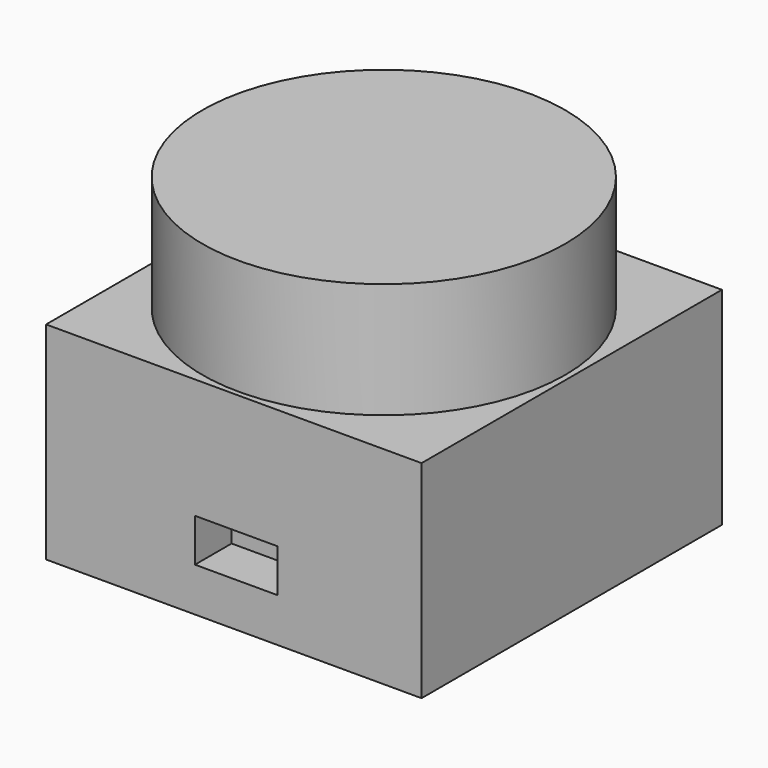
from build123d import *

# Parameters (mm, degrees)
SKETCH_W     = 41
SKETCH_H     = 41
PAD_DEPTH    = 22.6
SKETCH001_R  = 19.8
PAD001_DEPTH = 12.6
SKETCH002_W  = 9
SKETCH002_H  = 4.7
POCKET_DEPTH = 5


with BuildPart() as part:
    # Sketch → Pad (new body)
    with BuildSketch(Plane.XY):
        with Locations((3.199544, 3.041725)):
            Rectangle(SKETCH_W, SKETCH_H)
    extrude(amount=PAD_DEPTH)

    # Sketch001 (on Face6 of Pad) → Pad001 (join)
    with BuildSketch(Plane.XY.offset(22.6)):
        with Locations((3.297032, 2.892403)):
            Circle(SKETCH001_R)
    extrude(amount=PAD001_DEPTH)

    # Sketch002 (on Face3 of Pad001) → Pocket (cut)
    with BuildSketch(Plane.XZ.offset(17.458275)):
        with Locations((3.457133, 7.14271)):
            Rectangle(SKETCH002_W, SKETCH002_H)
    extrude(amount=-POCKET_DEPTH, mode=Mode.SUBTRACT)


solid = part.part
